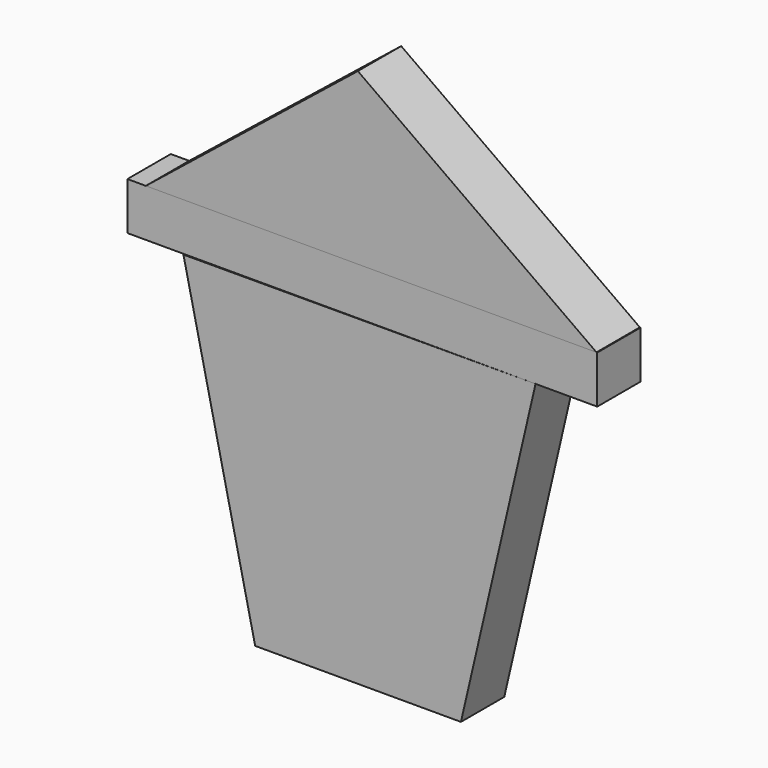
from build123d import *

# Parameters (mm, degrees)
F2_DEPTH = 20


with BuildPart() as f2:
    # F1 (on face) → F2 (new body, symmetric)
    with BuildSketch(Plane.XZ):
        Polygon((176.2142172069, 196.6851651669), (0, 322.1913451918), (-156.5569793337, 196.6851651669), align=None)
    extrude(amount=F2_DEPTH, both=True)


with BuildPart() as f2b:
    # F0 (on Front) → F2, piece 2 (new body, symmetric)
    with BuildSketch(Plane.XZ):
        Polygon((-170.1626926661, 161.5447551012), (131.2139630318, 161.5447551012), (176.7711341381, 161.5447551012), (176.7711341381, 196.6851651669), (-170.1626926661, 196.6851651669), align=None)
    extrude(amount=F2_DEPTH, both=True)


with BuildPart() as f2c:
    # F0 (on Front) → F2, piece 3 (new body, symmetric)
    with BuildSketch(Plane.XZ):
        Polygon((-75.8202075958, -76.1290788651), (76.1203169823, -76.1290788651), (131.2139630318, 161.5447551012), (-128.7904828787, 161.0014289618), align=None)
    extrude(amount=F2_DEPTH, both=True)


solid = Compound([f2.part, f2b.part, f2c.part])
